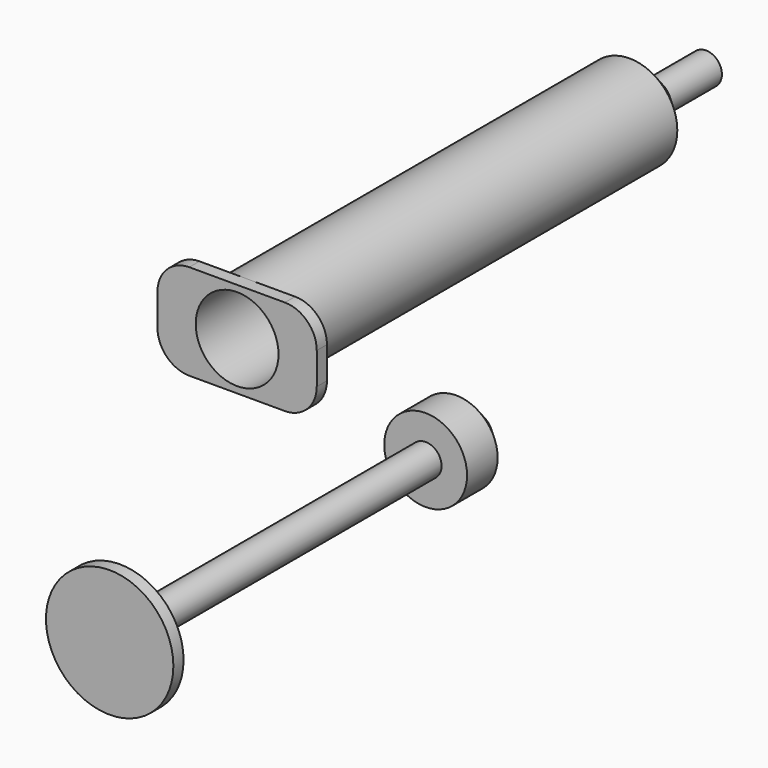
from build123d import *

# Parameters (mm, degrees)
F0_R      = 9.525
F1_DEPTH  = 101.6
F2_SIZE   = 6.35
F3_DEPTH  = 12.7
F4_T      = -1.27
F5_DEPTH  = 25.4
F6_R      = 8.255
F7_DEPTH  = 2.54
F8_R      = 6.35
F9_R      = 8.255
F10_DEPTH = 12.7
F11_R     = 3.175
F12_DEPTH = 76.2
F13_R     = 12.7
F13_R_2   = 3.175
F14_DEPTH = 2.54
F15_SIZE  = 5.08


with BuildPart() as f1:
    # F0 (on Front) → F1 (new body)
    with BuildSketch(Plane.XZ):
        with Locations((-23.4235748649, 17.1361938119)):
            Circle(F0_R)
    extrude(amount=-F1_DEPTH)

    # F2
    f2_edges = [f1.edges().sort_by_distance(p)[0] for p in [
        (-32.948575, 101.6, 17.136194),
    ]]
    chamfer(f2_edges, length=F2_SIZE)

    # F3 (add): a face of the model
    f3_faces = [f1.faces().sort_by_distance(p)[0] for p in [
        (-23.4235748649, 101.6, 17.1361938119),
    ]]
    extrude(f3_faces, amount=F3_DEPTH)

    # F4
    f4_openings = [f1.faces().sort_by_distance(p)[0] for p in [
        (-23.423575, 0, 17.136194),
    ]]
    offset(amount=F4_T, openings=f4_openings, kind=Kind.INTERSECTION)

    # F5 (cut): a face of the model
    f5_faces = [f1.faces().sort_by_distance(p)[0] for p in [
        (-23.4235748649, 113.03, 17.1361938119),
    ]]
    extrude(f5_faces, amount=-F5_DEPTH, mode=Mode.SUBTRACT)

    # F6 (on face) → F7 (join)
    with BuildSketch(Plane.XZ):
        with BuildLine():
            Line((-23.4235748649, 26.6611938119), (-39.2985748649, 26.6611938119))
            Line((-39.2985748649, 26.6611938119), (-39.2985748649, 7.6111938119))
            Line((-39.2985748649, 7.6111938119), (-23.4235748649, 7.6111938119))
            ThreePointArc((-23.4235748649, 7.6111938119), (-32.9485748649, 17.1361938119), (-23.4235748649, 26.6611938119))
        make_face()
        with BuildLine():
            Line((-7.5485748649, 26.6611938119), (-23.4235748649, 26.6611938119))
            ThreePointArc((-23.4235748649, 26.6611938119), (-16.6883827741, 23.8713859027), (-13.8985748649, 17.1361938119))
            ThreePointArc((-13.8985748649, 17.1361938119), (-16.6883827741, 10.4010017211), (-23.4235748649, 7.6111938119))
            Line((-23.4235748649, 7.6111938119), (-7.5485748649, 7.6111938119))
            Line((-7.5485748649, 7.6111938119), (-7.5485748649, 26.6611938119))
        make_face()
        with BuildLine():
            ThreePointArc((-13.8985748649, 17.1361938119), (-16.6883827741, 23.8713859027), (-23.4235748649, 26.6611938119))
            ThreePointArc((-23.4235748649, 26.6611938119), (-32.9485748649, 17.1361938119), (-23.4235748649, 7.6111938119))
            ThreePointArc((-23.4235748649, 7.6111938119), (-16.6883827741, 10.4010017211), (-13.8985748649, 17.1361938119))
        make_face()
        with Locations((-23.4235748649, 17.1361938119)):
            Circle(F6_R, mode=Mode.SUBTRACT)
    extrude(amount=F7_DEPTH)

    # F8
    f8_edges = [f1.edges().sort_by_distance(p)[0] for p in [
        (-39.298575, -1.27, 26.661194),
        (-39.298575, -1.27, 7.611194),
        (-7.548575, -1.27, 26.661194),
        (-7.548575, -1.27, 7.611194),
    ]]
    fillet(f8_edges, radius=F8_R)


with BuildPart() as f10:
    # F9 (on Front) → F10 (new body)
    with BuildSketch(Plane.XZ):
        with Locations((22.2882274538, 14.9122010916)):
            Circle(F9_R)
    extrude(amount=F10_DEPTH)

    # F11 (on face) → F12 (join)
    with BuildSketch(Plane.XZ.offset(12.7)):
        with Locations((22.2882274538, 14.9122010916)):
            Circle(F11_R)
    extrude(amount=F12_DEPTH)

    # F13 (on face) → F14 (join)
    with BuildSketch(Plane.XZ.offset(88.9)):
        with Locations((22.2882274538, 14.9122010916)):
            Circle(F13_R)
        with Locations((22.2882274538, 14.9122010916)):
            Circle(F13_R_2, mode=Mode.SUBTRACT)
        with Locations((22.2882274538, 14.9122010916)):
            Circle(F13_R_2)
    extrude(amount=F14_DEPTH)

    # F15
    f15_edges = [f10.edges().sort_by_distance(p)[0] for p in [
        (14.033227, 0, 14.912201),
    ]]
    chamfer(f15_edges, length=F15_SIZE)


solid = Compound([f1.part, f10.part])
